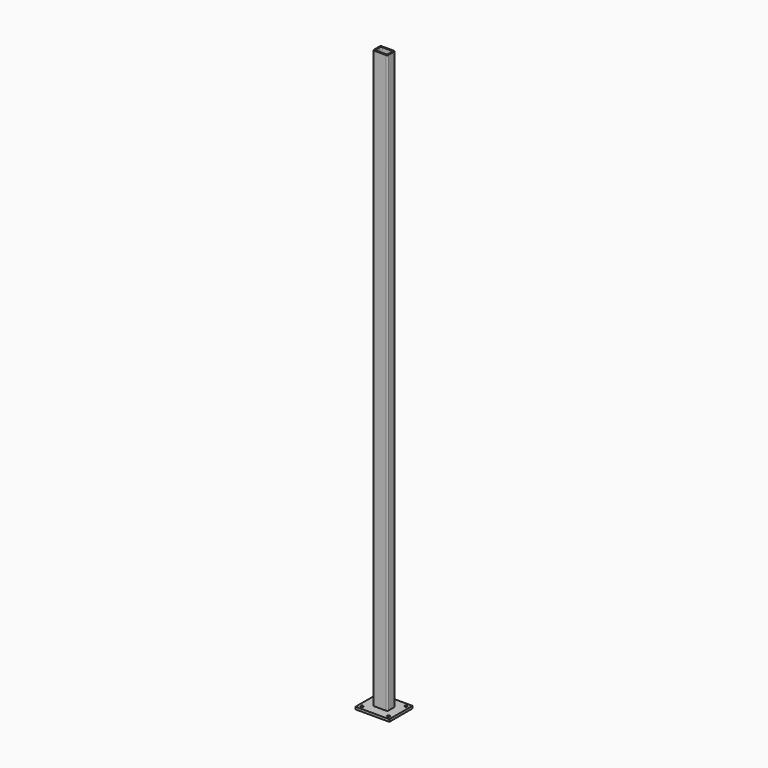
from build123d import *

# Parameters (mm, degrees)
F0_W     = 140
F0_H     = 120
F0_R     = 5.5
F1_DEPTH = 10
F2_DEPTH = 2400


with BuildPart() as f1:
    # F0 (on Top) → F1 (new body)
    with BuildSketch(Plane.XY):
        Rectangle(F0_W, F0_H)
        with Locations((-55, -45)):
            Circle(F0_R, mode=Mode.SUBTRACT)
        with Locations((55, -45)):
            Circle(F0_R, mode=Mode.SUBTRACT)
        with Locations((-55, 45)):
            Circle(F0_R, mode=Mode.SUBTRACT)
        with BuildLine():
            ThreePointArc((-30, 15), (-28.535534, 18.535534), (-25, 20))
            Line((-25, 20), (25, 20))
            ThreePointArc((25, 20), (28.535534, 18.535534), (30, 15))
            Line((30, 15), (30, -15))
            ThreePointArc((30, -15), (28.535534, -18.535534), (25, -20))
            Line((25, -20), (-25, -20))
            ThreePointArc((-25, -20), (-28.535534, -18.535534), (-30, -15))
            Line((-30, -15), (-30, 15))
        make_face(mode=Mode.SUBTRACT)
        with Locations((55, 45)):
            Circle(F0_R, mode=Mode.SUBTRACT)
    extrude(amount=F1_DEPTH)

    # F0 (on Top) → F2 (join)
    with BuildSketch(Plane.XY):
        with BuildLine():
            Line((25, 20), (-25, 20))
            ThreePointArc((-25, 20), (-28.535534, 18.535534), (-30, 15))
            Line((-30, 15), (-30, -15))
            ThreePointArc((-30, -15), (-28.535534, -18.535534), (-25, -20))
            Line((-25, -20), (25, -20))
            ThreePointArc((25, -20), (28.535534, -18.535534), (30, -15))
            Line((30, -15), (30, 15))
            ThreePointArc((30, 15), (28.535534, 18.535534), (25, 20))
        make_face()
        with BuildLine():
            ThreePointArc((-25, 10), (-23.535534, 13.535534), (-20, 15))
            Line((-20, 15), (20, 15))
            ThreePointArc((20, 15), (23.535534, 13.535534), (25, 10))
            Line((25, 10), (25, -10))
            ThreePointArc((25, -10), (23.535534, -13.535534), (20, -15))
            Line((20, -15), (-20, -15))
            ThreePointArc((-20, -15), (-23.535534, -13.535534), (-25, -10))
            Line((-25, -10), (-25, 10))
        make_face(mode=Mode.SUBTRACT)
    extrude(amount=F2_DEPTH)


solid = f1.part
